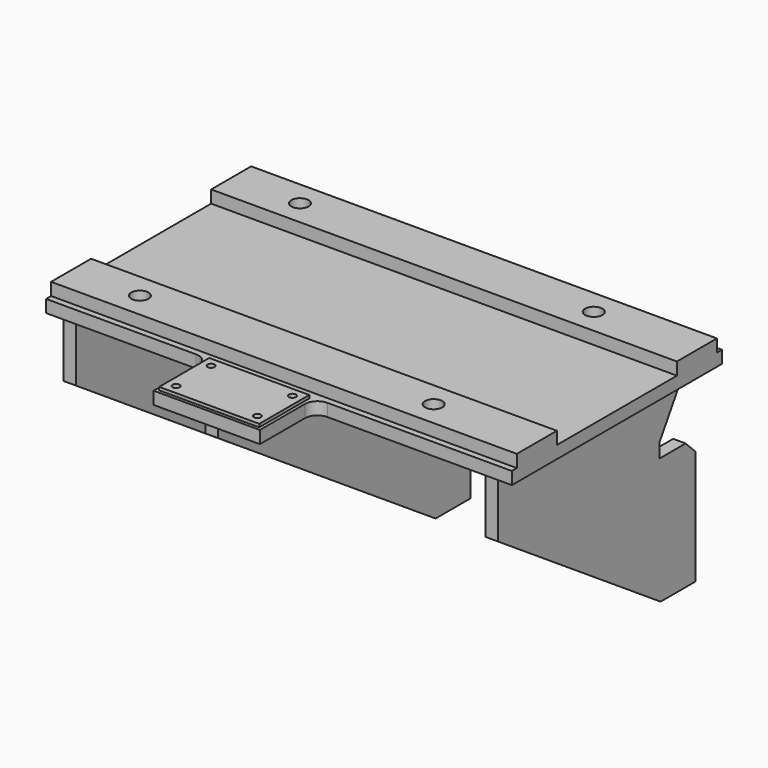
from build123d import *

# Parameters (mm, degrees)
F0_W      = 946.15
F0_H      = 533.4
F1_DEPTH  = 25.4
F2_W      = 215.9
F2_H      = 139.7
F3_DEPTH  = 25.4
F4_R      = 25.4
F5_W      = 946.15
F5_H      = 101.6
F6_DEPTH  = 25.4
F7_R      = 17.526
F8_DEPTH  = 50.801
F9_W      = 203.2
F9_H      = 127
F10_DEPTH = 6.35
F12_D     = 14.2875
F13_W     = 25.4
F13_H     = 501.65
F13_H_2   = 641.096
F14_DEPTH = 393.7
F16_DEPTH = 908.051
F18_DEPTH = 908.051


with BuildPart() as f1:
    # F0 (on Top) → F1 (new body)
    with BuildSketch(Plane.XY):
        Rectangle(F0_W, F0_H)
    extrude(amount=-F1_DEPTH)

    # F2 (on face) → F3 (join)
    with BuildSketch(Plane.XY):
        with Locations((-34.925, -336.55)):
            Rectangle(F2_W, F2_H)
    extrude(amount=-F3_DEPTH)

    # F4
    f4_edges = [f1.edges().sort_by_distance(p)[0] for p in [
        (-142.875, -266.7, -12.7),
        (73.025, -266.7, -12.7),
    ]]
    fillet(f4_edges, radius=F4_R)

    # F5 (on face) → F6 (join)
    with BuildSketch(Plane.XY):
        with Locations((0, 203.2)):
            Rectangle(F5_W, F5_H)
        with Locations((0, -203.2)):
            Rectangle(F5_W, F5_H)
    extrude(amount=F6_DEPTH)

    # F7 (on face) → F8 (cut, through all)
    with BuildSketch(Plane.XY.offset(25.4)):
        with Locations((-333.375, 203.2)):
            Circle(F7_R)
        with Locations((-333.375, -203.2)):
            Circle(F7_R)
        with Locations((263.525, -203.2)):
            Circle(F7_R)
        with Locations((263.525, 203.2)):
            Circle(F7_R)
    extrude(amount=-F8_DEPTH, mode=Mode.SUBTRACT)

    # F9 (on face) → F10 (join)
    with BuildSketch(Plane.XY):
        with Locations((-34.925, -336.55)):
            Rectangle(F9_W, F9_H)
    extrude(amount=F10_DEPTH)

    # F12 (through all)
    with Locations(Plane.XY.offset(6.35)):
        with Locations((-117.475, -292.1), (-117.475, -381), (47.625, -292.1), (47.625, -381)):
            Hole(F12_D / 2)

    # F13 (on face) → F14 (join)
    with BuildSketch(Plane(origin=(0, 0, -25.4), x_dir=(1, 0, 0), z_dir=(0, 0, -1))):
        with Locations((422.275, 3.175)):
            Rectangle(F13_W, F13_H)
        with Locations((-34.925, 72.898)):
            Rectangle(F13_W, F13_H_2)
        with Locations((-434.975, 3.175)):
            Rectangle(F13_W, F13_H)
    extrude(amount=F14_DEPTH)

    # F15 (on face) → F16 (cut, through all)
    with BuildSketch(Plane.YZ.offset(434.975)):
        Polygon((158.75, -419.1), (-393.446, -50.8), (-393.446, -419.1), align=None)
    extrude(amount=-F16_DEPTH, mode=Mode.SUBTRACT)

    # F17 (on face) → F18 (cut, through all)
    with BuildSketch(Plane.YZ.offset(434.975)):
        Polygon((155.575, -133.35), (155.575, -161.925), (222.25, -161.925), (247.65, -187.325), (247.65, -25.4), (206.375, -25.4), (206.375, -50.8), align=None)
    extrude(amount=-F18_DEPTH, mode=Mode.SUBTRACT)


solid = f1.part
